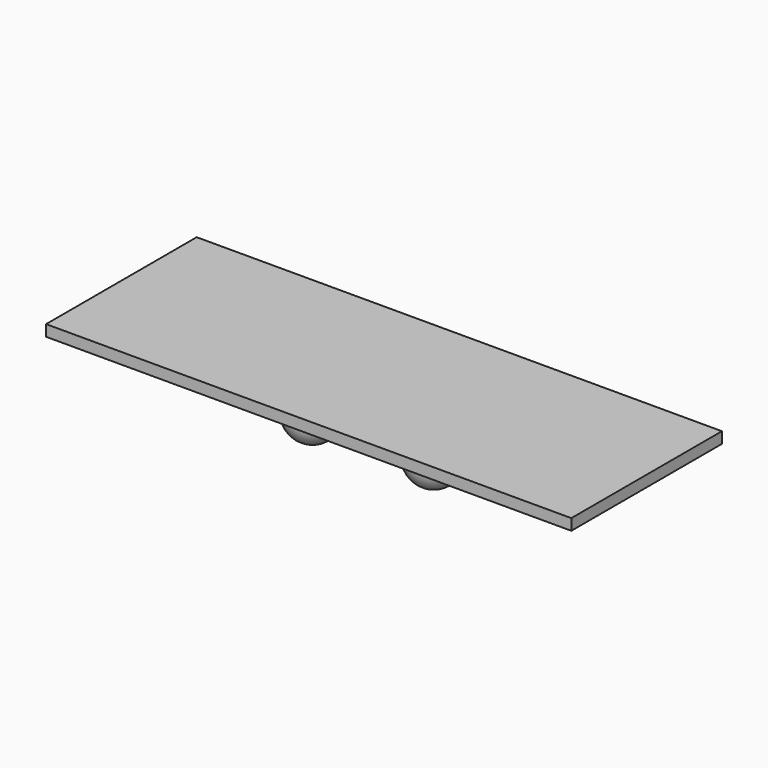
from build123d import *

# Parameters (mm, degrees)
F0_W      = 88
F0_H      = 37
F1_DEPTH  = 1.75
F2_W      = 82.3
F2_H      = 29.5
F3_DEPTH  = 1.5
F4_R      = 4
F5_DEPTH  = 10
F6_R      = 4
F7_R      = 1.35
F8_DEPTH  = 88.001
F9_R      = 3
F10_DEPTH = 25


with BuildPart() as f1:
    # F0 (on Top) → F1 (new body)
    with BuildSketch(Plane.XY):
        with Locations((-44, 18.5)):
            Rectangle(F0_W, F0_H)
    extrude(amount=F1_DEPTH)

    # F2 (on face) → F3 (join)
    with BuildSketch(Plane.XY.offset(1.75)):
        with Locations((-43.1, 18.5)):
            Rectangle(F2_W, F2_H)
    extrude(amount=F3_DEPTH)

    # F4 (on face) → F5 (join)
    with BuildSketch(Plane(origin=(0, 0, 0), x_dir=(1, 0, 0), z_dir=(0, 0, -1))):
        with Locations((-53.5, -17.5)):
            Circle(F4_R)
        with Locations((-34.5, -17.5)):
            Circle(F4_R)
    extrude(amount=F5_DEPTH)

    # F6
    f6_edges = [f1.edges().sort_by_distance(p)[0] for p in [
        (-57.5, 17.5, -10),
        (-38.5, 17.5, -10),
    ]]
    fillet(f6_edges, radius=F6_R)

    # F7 (on face) → F8 (cut, through all)
    with BuildSketch(Plane.YZ):
        with Locations((17.5, -3.85)):
            Circle(F7_R)
    extrude(amount=-F8_DEPTH, mode=Mode.SUBTRACT)

    # F9
    f9_edges = [f1.edges().sort_by_distance(p)[0] for p in [
        (-88, 0, 0.875),
        (-88, 37, 0.875),
        (0, 37, 0.875),
        (0, 0, 0.875),
    ]]
    fillet(f9_edges, radius=F9_R)

    # F2 (on face) → F10 (intersect)
    with BuildSketch(Plane.XY.offset(1.75)):
        with Locations((-43.1, 18.5)):
            Rectangle(F2_W, F2_H)
    extrude(amount=-F10_DEPTH, mode=Mode.INTERSECT)


solid = f1.part
